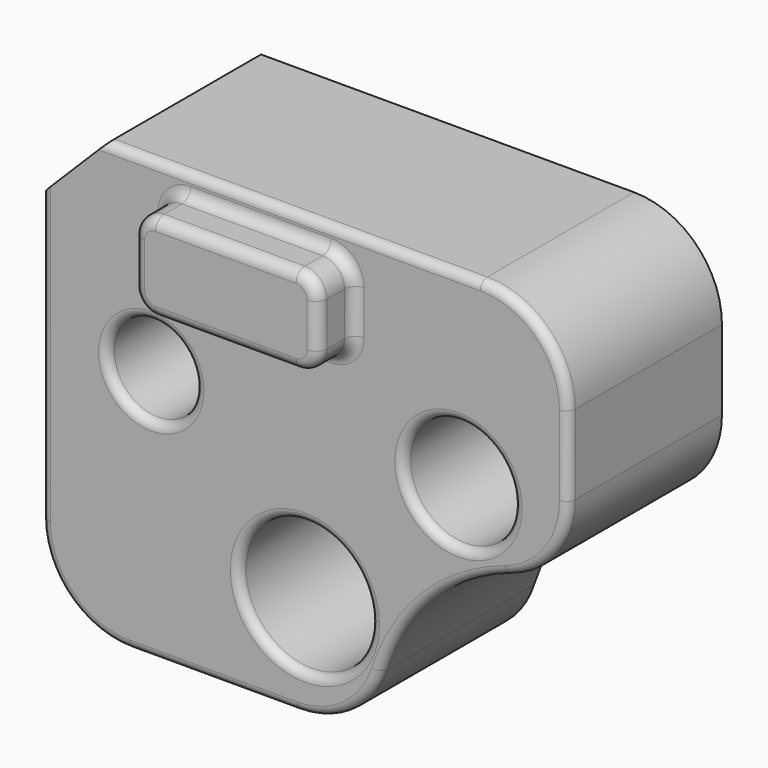
from build123d import *

# Parameters (mm, degrees)
F0_W      = 76.2
F0_H      = 63.5
F1_DEPTH  = 27.7818869799
F2_R      = 6.35
F2_R_2    = 9.525
F2_R_3    = 7.9375
F3_DEPTH  = 27.7828869799
F4_R      = 12.7
F5_SIZE   = 9.525
F6_R      = 28.575
F7_DEPTH  = 27.7828869799
F8_R      = 12.7
F10_DEPTH = 6.35
F11_R     = 1.5748
F12_R     = 1.27


with BuildPart() as f1:
    # F0 (on Front) → F1 (new body)
    with BuildSketch(Plane.XZ):
        Rectangle(F0_W, F0_H)
    extrude(amount=F1_DEPTH)

    # F2 (on face) → F3 (cut, through all)
    with BuildSketch(Plane.XZ.offset(27.7818869799)):
        with Locations((-22.225, 4.7625)):
            Circle(F2_R)
        with Locations((0, -16.8275)):
            Circle(F2_R_2)
        with Locations((22.225, 4.7625)):
            Circle(F2_R_3)
    extrude(amount=-F3_DEPTH, mode=Mode.SUBTRACT)

    # F4
    f4_edges = [f1.edges().sort_by_distance(p)[0] for p in [
        (38.1, -13.890943, 31.75),
    ]]
    fillet(f4_edges, radius=F4_R)

    # F5
    f5_edges = [f1.edges().sort_by_distance(p)[0] for p in [
        (-38.1, -13.890943, 31.75),
    ]]
    chamfer(f5_edges, length=F5_SIZE)

    # F6 (on face) → F7 (cut, through all)
    with BuildSketch(Plane.XZ.offset(27.7818869799)):
        with Locations((38.1, -31.75)):
            Circle(F6_R)
    extrude(amount=-F7_DEPTH, mode=Mode.SUBTRACT)

    # F8
    f8_edges = [f1.edges().sort_by_distance(p)[0] for p in [
        (-38.1, -13.890943, -31.75),
        (9.525, -13.890943, -31.75),
        (38.1, -13.890943, -3.175),
    ]]
    fillet(f8_edges, radius=F8_R)

    # F9 (on face) → F10 (join)
    with BuildSketch(Plane.XZ.offset(27.7818869799)):
        with BuildLine():
            ThreePointArc((-19.685, 19.05), (-18.7550640303, 16.8049359697), (-16.51, 15.875))
            Line((-16.51, 15.875), (3.81, 15.875))
            ThreePointArc((3.81, 15.875), (6.0550640303, 16.8049359697), (6.985, 19.05))
            Line((6.985, 19.05), (6.985, 25.4))
            ThreePointArc((6.985, 25.4), (6.0550640303, 27.6450640303), (3.81, 28.575))
            Line((3.81, 28.575), (-16.51, 28.575))
            ThreePointArc((-16.51, 28.575), (-18.7550640303, 27.6450640303), (-19.685, 25.4))
            Line((-19.685, 25.4), (-19.685, 19.05))
        make_face()
    extrude(amount=F10_DEPTH)

    # F11
    f11_edges = [f1.edges().sort_by_distance(p)[0] for p in [
        (-18.755064, -34.131887, 16.804936),
        (-6.35, -34.131887, 15.875),
        (6.055064, -34.131887, 16.804936),
        (6.985, -34.131887, 22.225),
        (6.055064, -34.131887, 27.645064),
        (-6.35, -34.131887, 28.575),
        (-18.755064, -34.131887, 27.645064),
        (-19.685, -34.131887, 22.225),
        (-6.35, -27.781887, 28.575),
    ]]
    fillet(f11_edges, radius=F11_R)

    # F12
    f12_edges = [f1.edges().sort_by_distance(p)[0] for p in [
        (-28.575, -27.781887, 4.7625),
        (-9.525, -27.781887, -16.8275),
        (14.2875, -27.781887, 4.7625),
        (-13.286291, -27.781887, -31.75),
    ]]
    fillet(f12_edges, radius=F12_R)


solid = f1.part
